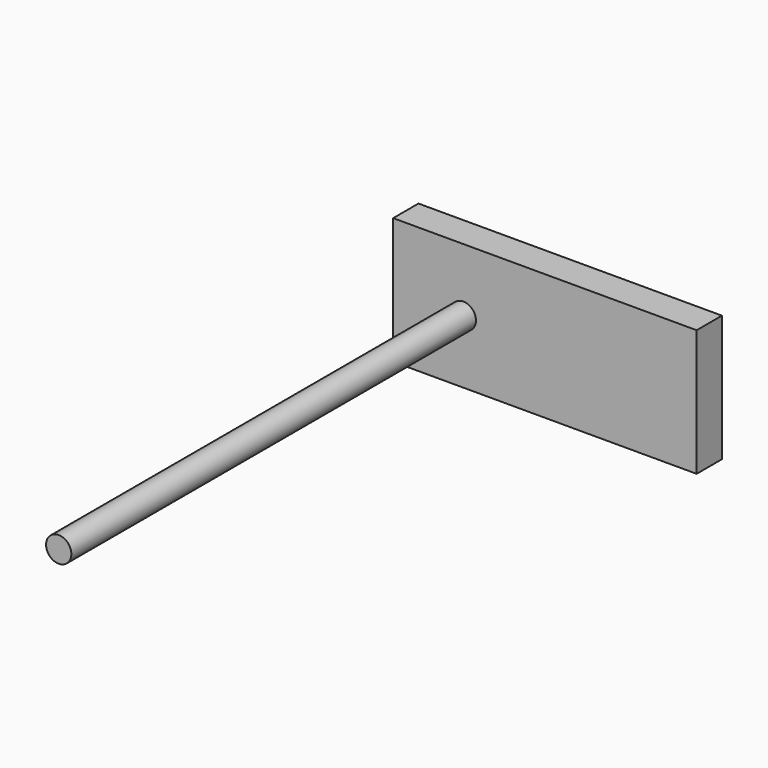
from build123d import *

# Parameters (mm, degrees)
F0_W     = 240
F0_H     = 100
F1_DEPTH = 25
F2_R     = 10
F3_DEPTH = 400


with BuildPart() as f1:
    # F0 (on Front) → F1 (new body)
    with BuildSketch(Plane.XZ):
        Rectangle(F0_W, F0_H)
    extrude(amount=F1_DEPTH)

    # F2 (on face) → F3 (join)
    with BuildSketch(Plane.XZ.offset(25)):
        with Locations((-64.530338, 0)):
            Circle(F2_R)
    extrude(amount=F3_DEPTH)


solid = f1.part
